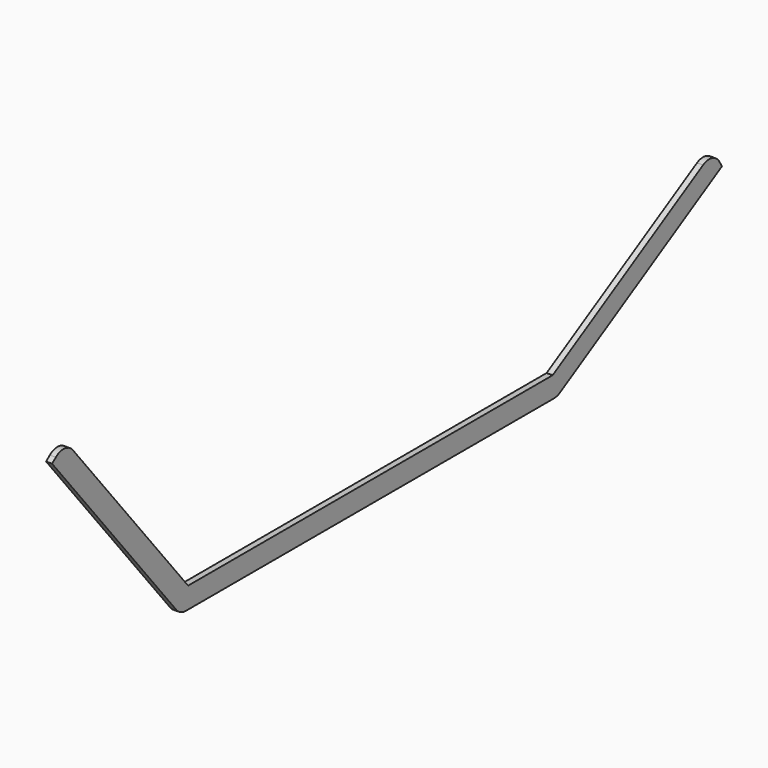
from build123d import *

# Parameters (mm, degrees)
F1_DEPTH = 4


with BuildPart() as f1:
    # F0 (on Right) → F1 (new body)
    with BuildSketch(Plane.YZ):
        with BuildLine():
            Line((119.640534, -21.591935), (-183.058072, -21.591935))
            Line((-183.058072, -21.591935), (-278.807131, 96.648306))
            ThreePointArc((-278.807131, 96.648306), (-285.533306, 100.300321), (-292.871795, 98.126561))
            Line((-292.871795, 98.126561), (-295.980379, 95.60928))
            Line((-295.980379, 95.60928), (-192.737434, -31.885139))
            ThreePointArc((-192.737434, -31.885139), (-189.271085, -34.617788), (-184.965974, -35.591935))
            Line((-184.965974, -35.591935), (120.712331, -35.591935))
            ThreePointArc((120.712331, -35.591935), (123.300522, -35.251194), (125.712331, -34.252189))
            Line((125.712331, -34.252189), (260.223837, 43.408065))
            Line((260.223837, 43.408065), (258.223837, 46.872166))
            ThreePointArc((258.223837, 46.872166), (252.151773, 51.531425), (244.563583, 50.53242))
            Line((244.563583, 50.53242), (119.640534, -21.591935))
        make_face()
    extrude(amount=F1_DEPTH)


solid = f1.part
